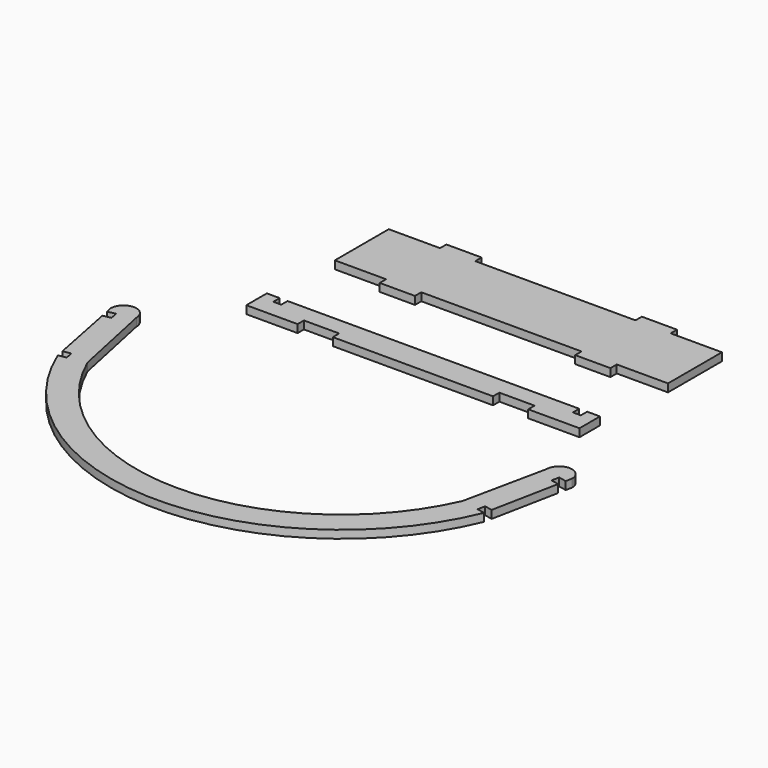
from build123d import *

# Parameters (mm, degrees)
F0_W     = 69.779775
F0_H     = 15.748
F1_DEPTH = 15.748


with BuildPart() as f1:
    # F0 (on Top) → F1 (new body)
    with BuildSketch(Plane.XY):
        Polygon((-115.248984, 475.700305), (-185.028759, 475.700305), (-286.628759, 475.700305), (-286.628759, 342.096305), (-185.028759, 342.096305), (-115.248984, 342.096305), (202.391466, 342.096305), (272.171241, 342.096305), (373.771241, 342.096305), (373.771241, 475.700305), (272.171241, 475.700305), (202.391466, 475.700305), align=None)
        with Locations((-150.138871, 483.574305)):
            Rectangle(F0_W, F0_H)
        with Locations((-150.138871, 334.222305)):
            Rectangle(F0_W, F0_H)
        with Locations((237.281353, 483.574305)):
            Rectangle(F0_W, F0_H)
        with Locations((237.281353, 334.222305)):
            Rectangle(F0_W, F0_H)
        Polygon((-283.913547, 189.871882), (-299.661547, 189.871882), (-299.661547, 139.071882), (-198.061547, 139.071882), (-198.061547, 154.819882), (-128.281772, 154.819882), (-128.281772, 139.071882), (189.358678, 139.071882), (189.358678, 154.819882), (259.138453, 154.819882), (259.138453, 139.071882), (360.738453, 139.071882), (360.738453, 189.871882), (335.338453, 189.871882), (335.338453, 174.123882), (319.590453, 174.123882), (319.590453, 189.871882), (-258.513547, 189.871882), (-258.513547, 174.123882), (-274.261547, 174.123882), (-274.261547, 189.871882), align=None)
        with BuildLine():
            Line((-407.102175, -171.635598), (-422.586123, -174.507332))
            ThreePointArc((-422.586123, -174.507332), (0, -457.2), (422.586123, -174.507332))
            Line((422.586123, -174.507332), (407.102175, -171.635598))
            Line((407.102175, -171.635598), (409.92759, -156.401391))
            Line((409.92759, -156.401391), (425.562346, -159.502576))
            Line((425.562346, -159.502576), (451.732011, -27.567097))
            Line((451.732011, -27.567097), (436.097255, -24.465911))
            Line((436.097255, -24.465911), (439.300448, -9.306637))
            Line((439.300448, -9.306637), (454.708235, -12.562341))
            Line((454.708235, -12.562341), (457.2, 0))
            ThreePointArc((457.2, 0), (431.8, 25.4), (406.4, 0))
            Line((406.4, 0), (371.66057, -164.406147))
            ThreePointArc((371.66057, -164.406147), (221.7502, -340.56983), (0, -406.4))
            ThreePointArc((0, -406.4), (-221.7502, -340.56983), (-371.66057, -164.406147))
            Line((-371.66057, -164.406147), (-406.4, 0))
            ThreePointArc((-406.4, 0), (-431.8, 25.4), (-457.2, 0))
            Line((-457.2, 0), (-454.708235, -12.562341))
            Line((-454.708235, -12.562341), (-439.300448, -9.306637))
            Line((-439.300448, -9.306637), (-436.097255, -24.465911))
            Line((-436.097255, -24.465911), (-451.732011, -27.567097))
            Line((-451.732011, -27.567097), (-425.562346, -159.502576))
            Line((-425.562346, -159.502576), (-409.92759, -156.401391))
            Line((-409.92759, -156.401391), (-407.102175, -171.635598))
        make_face()
    extrude(amount=F1_DEPTH)


solid = f1.part
